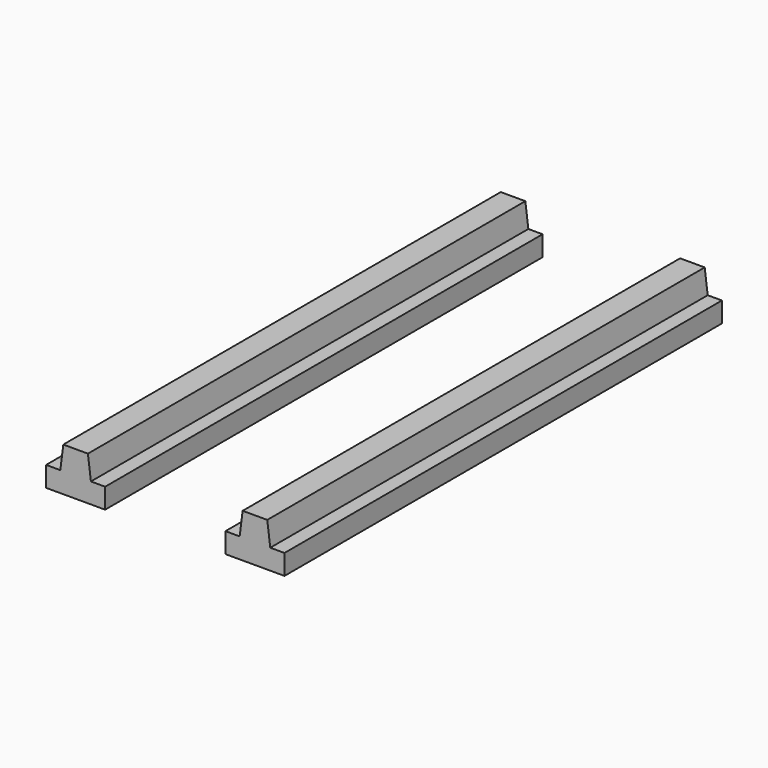
from build123d import *

# Parameters (mm, degrees)
F1_DEPTH = 1000


with BuildPart() as f1:
    # F0 (on Front) → F1 (new body)
    with BuildSketch(Plane.XZ):
        Polygon((0, 37), (0, 0), (108, 0), (108, 37), (82, 37), (76.5, 80), (54, 80), (31.5, 80), (26, 37), align=None)
    extrude(amount=-F1_DEPTH)


with BuildPart() as f3_1:
    # F3: instance of F1
    add(f1.part.mirror(Plane.YZ.offset(-110)))


solid = Compound([f1.part, f3_1.part])
